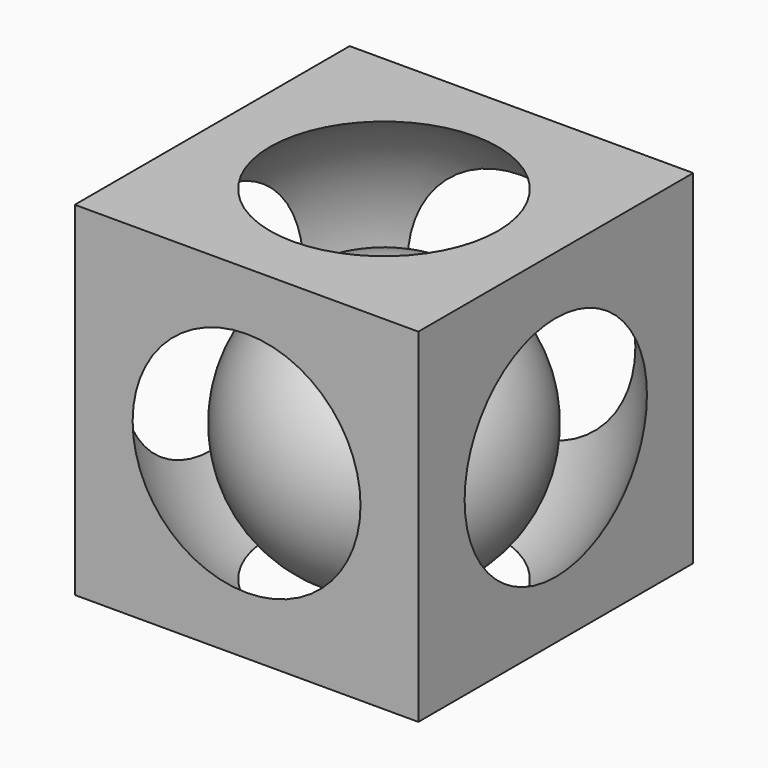
from build123d import *

# Parameters (mm, degrees)
BOX_W     = 30
BOX_H     = 30
BOX_DEPTH = 30


with BuildPart() as esfera:
    # Sphere → Sphere (revolve)
    with BuildSketch(Plane(origin=(15, 15, 15), x_dir=(1, 0, 0), z_dir=(0, -1, 0))):
        with BuildLine():
            ThreePointArc((0, -18), (18, 0), (0, 18))
            Line((0, 18), (0, -18))
        make_face()
    revolve(axis=Axis((15, 15, 15), (0, 0, 1)))


with BuildPart() as cut:
    # Box → Box (new body)
    with BuildSketch(Plane.XY):
        with Locations((15, 15)):
            Rectangle(BOX_W, BOX_H)
    extrude(amount=BOX_DEPTH)

    # Cut: cut Esfera
    add(esfera.part, mode=Mode.SUBTRACT)


with BuildPart() as esfera001:
    # Sphere001 → Sphere001 (revolve)
    with BuildSketch(Plane(origin=(15, 15, 12), x_dir=(1, 0, 0), z_dir=(0, -1, 0))):
        with BuildLine():
            ThreePointArc((0, -12), (12, 0), (0, 12))
            Line((0, 12), (0, -12))
        make_face()
    revolve(axis=Axis((15, 15, 12), (0, 0, 1)))


solid = Compound([cut.part, esfera001.part])
